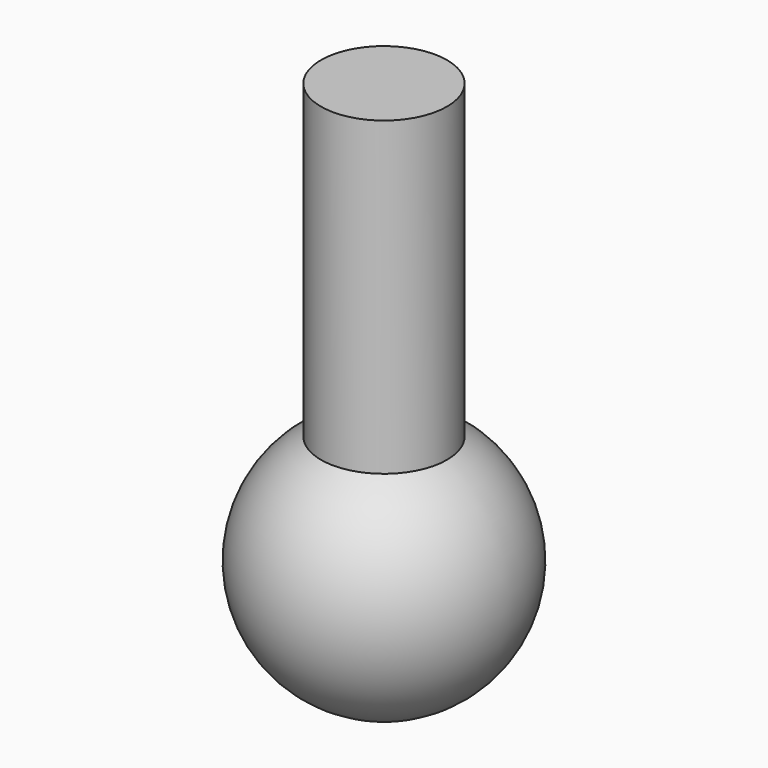
from build123d import *

# Parameters (mm, degrees)
CYLINDER_R     = 1.5
CYLINDER_DEPTH = 10


with BuildPart() as cylinder:
    # Cylinder → Cylinder (new body)
    with BuildSketch(Plane.XY):
        Circle(CYLINDER_R)
    extrude(amount=CYLINDER_DEPTH)


with BuildPart() as ball_and_screw:
    # Sphere → Sphere (revolve)
    with BuildSketch(Plane.XZ):
        with BuildLine():
            ThreePointArc((0, -3), (3, 0), (0, 3))
            Line((0, 3), (0, -3))
        make_face()
    revolve(axis=Axis((0, 0, 0), (0, 0, 1)))

    # Fusion005: union Cylinder
    add(cylinder.part)


with BuildPart() as ball_and_screw_1:
    # Fusion005 placement: moved
    add(ball_and_screw.part.moved(Location((0, 0, -1))))


solid = ball_and_screw_1.part
